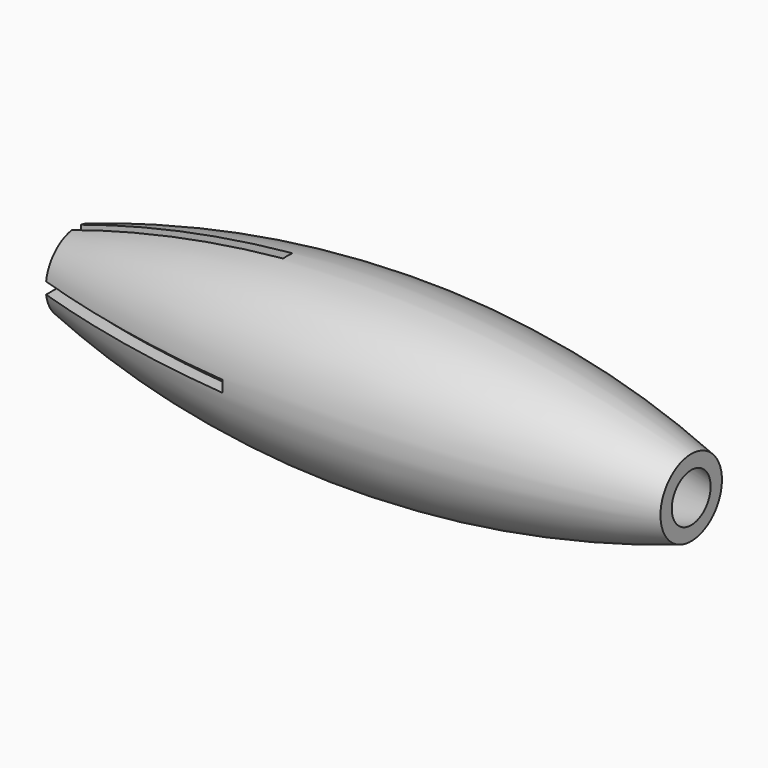
from build123d import *

# Parameters (mm, degrees)
F2_W     = 15.24
F2_H     = 15.24
F3_DEPTH = 279.4


with BuildPart() as f1:
    # F0 (on Front) → F1 (revolve)
    with BuildSketch(Plane.XZ):
        with BuildLine():
            ThreePointArc((406.4, 50.8), (205.6655112069, 98.3292717242), (0, 114.3))
            Line((0, 114.3), (0, 96.52))
            ThreePointArc((0, 96.52), (205.7356853326, 80.3194484038), (406.4, 32.1171361113))
            Line((406.4, 32.1171361113), (406.4, 50.8))
        make_face()
        with BuildLine():
            ThreePointArc((0, 114.3), (-205.6655112069, 98.3292717242), (-406.4, 50.8))
            Line((-406.4, 50.8), (-406.4, 32.1171361113))
            ThreePointArc((-406.4, 32.1171361113), (-205.7356853326, 80.3194484038), (0, 96.52))
            Line((0, 96.52), (0, 114.3))
        make_face()
    revolve(axis=Axis((53.4217184067, 0, 0), (1, 0, 0)))

    # F2 (on face) → F3 (cut)
    with BuildSketch(Plane(origin=(-406.4, 0, 0), x_dir=(0, -1, 0), z_dir=(-1, 0, 0))):
        with BuildLine():
            Line((-7.62, 31.2000966664), (-7.62, 7.62))
            Line((-7.62, 7.62), (7.62, 7.62))
            Line((7.62, 7.62), (7.62, 31.2000966664))
            ThreePointArc((7.62, 31.2000966664), (0, 32.1171361113), (-7.62, 31.2000966664))
        make_face()
        with BuildLine():
            Line((-31.2000966664, 7.62), (-50.2252486305, 7.62))
            ThreePointArc((-50.2252486305, 7.62), (-50.8, 0), (-50.2252486305, -7.62))
            Line((-50.2252486305, -7.62), (-31.2000966664, -7.62))
            ThreePointArc((-31.2000966664, -7.62), (-32.1171361113, 0), (-31.2000966664, 7.62))
        make_face()
        with BuildLine():
            ThreePointArc((7.62, 50.2252486305), (0, 50.8), (-7.62, 50.2252486305))
            Line((-7.62, 50.2252486305), (-7.62, 31.2000966664))
            ThreePointArc((-7.62, 31.2000966664), (0, 32.1171361113), (7.62, 31.2000966664))
            Line((7.62, 31.2000966664), (7.62, 50.2252486305))
        make_face()
        with BuildLine():
            ThreePointArc((7.62, -50.2252486305), (0, -50.8), (-7.62, -50.2252486305))
            Line((-7.62, -50.2252486305), (-7.62, -127))
            Line((-7.62, -127), (7.62, -127))
            Line((7.62, -127), (7.62, -50.2252486305))
        make_face()
        with BuildLine():
            Line((7.62, -7.62), (-7.62, -7.62))
            Line((-7.62, -7.62), (-7.62, -31.2000966664))
            ThreePointArc((-7.62, -31.2000966664), (0, -32.1171361113), (7.62, -31.2000966664))
            Line((7.62, -31.2000966664), (7.62, -7.62))
        make_face()
        with BuildLine():
            Line((-7.62, -31.2000966664), (-7.62, -50.2252486305))
            ThreePointArc((-7.62, -50.2252486305), (0, -50.8), (7.62, -50.2252486305))
            Line((7.62, -50.2252486305), (7.62, -31.2000966664))
            ThreePointArc((7.62, -31.2000966664), (0, -32.1171361113), (-7.62, -31.2000966664))
        make_face()
        Rectangle(F2_W, F2_H)
        with BuildLine():
            Line((127, 7.62), (50.2252486305, 7.62))
            ThreePointArc((50.2252486305, 7.62), (50.6561083702, 3.8208225272), (50.8, 0))
            ThreePointArc((50.8, 0), (50.6561083702, -3.8208225272), (50.2252486305, -7.62))
            Line((50.2252486305, -7.62), (127, -7.62))
            Line((127, -7.62), (127, 7.62))
        make_face()
        with BuildLine():
            Line((-7.62, 7.62), (-31.2000966664, 7.62))
            ThreePointArc((-31.2000966664, 7.62), (-32.1171361113, 0), (-31.2000966664, -7.62))
            Line((-31.2000966664, -7.62), (-7.62, -7.62))
            Line((-7.62, -7.62), (-7.62, 7.62))
        make_face()
        with BuildLine():
            ThreePointArc((50.8, 0), (50.6561083702, 3.8208225272), (50.2252486305, 7.62))
            Line((50.2252486305, 7.62), (31.2000966664, 7.62))
            ThreePointArc((31.2000966664, 7.62), (31.8870521004, 3.8374914118), (32.1171361113, 0))
            ThreePointArc((32.1171361113, 0), (31.8870521004, -3.8374914118), (31.2000966664, -7.62))
            Line((31.2000966664, -7.62), (50.2252486305, -7.62))
            ThreePointArc((50.2252486305, -7.62), (50.6561083702, -3.8208225272), (50.8, 0))
        make_face()
        with BuildLine():
            Line((31.2000966664, 7.62), (7.62, 7.62))
            Line((7.62, 7.62), (7.62, -7.62))
            Line((7.62, -7.62), (31.2000966664, -7.62))
            ThreePointArc((31.2000966664, -7.62), (31.8870521004, -3.8374914118), (32.1171361113, 0))
            ThreePointArc((32.1171361113, 0), (31.8870521004, 3.8374914118), (31.2000966664, 7.62))
        make_face()
        with BuildLine():
            Line((-50.2252486305, 7.62), (-127, 7.62))
            Line((-127, 7.62), (-127, -7.62))
            Line((-127, -7.62), (-50.2252486305, -7.62))
            ThreePointArc((-50.2252486305, -7.62), (-50.8, 0), (-50.2252486305, 7.62))
        make_face()
        with BuildLine():
            Line((-7.62, 127), (-7.62, 50.2252486305))
            ThreePointArc((-7.62, 50.2252486305), (0, 50.8), (7.62, 50.2252486305))
            Line((7.62, 50.2252486305), (7.62, 127))
            Line((7.62, 127), (-7.62, 127))
        make_face()
    extrude(amount=-F3_DEPTH, mode=Mode.SUBTRACT)


solid = f1.part
